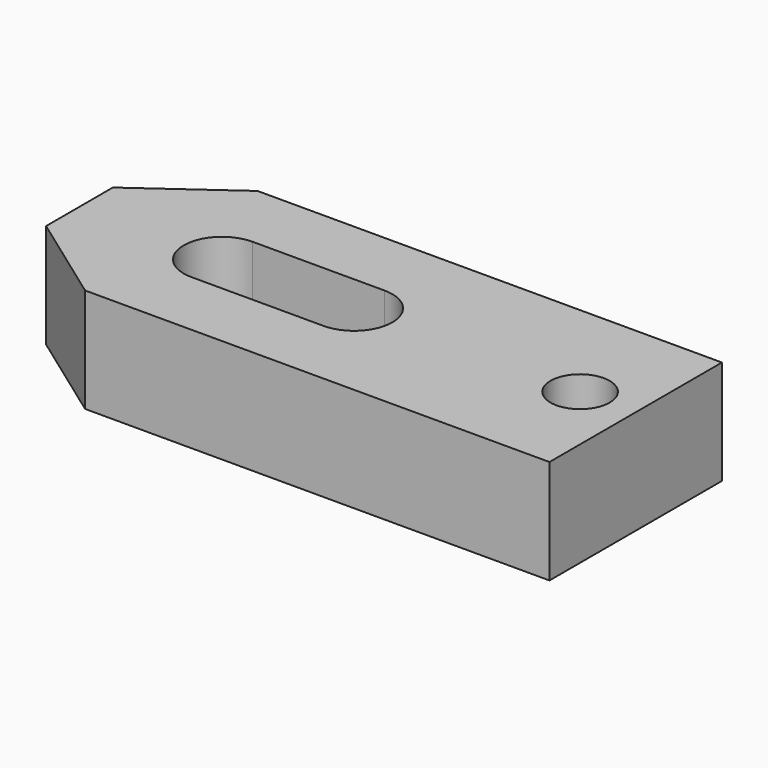
from build123d import *

# Parameters (mm, degrees)
F0_R     = 4.25
F1_DEPTH = 15


with BuildPart() as f1:
    # F0 (on Top) → F1 (new body)
    with BuildSketch(Plane.XY):
        Polygon((13.213325, 0), (80, 0), (80, 31), (13.213325, 31), (0, 21.5), (0, 9.5), align=None)
        with BuildLine():
            Line((20.5, 21), (39.5, 21))
            ThreePointArc((39.5, 21), (45, 15.5), (39.5, 10))
            Line((39.5, 10), (20.5, 10))
            ThreePointArc((20.5, 10), (15, 15.5), (20.5, 21))
        make_face(mode=Mode.SUBTRACT)
        with Locations((72, 15.5)):
            Circle(F0_R, mode=Mode.SUBTRACT)
    extrude(amount=F1_DEPTH)


solid = f1.part
